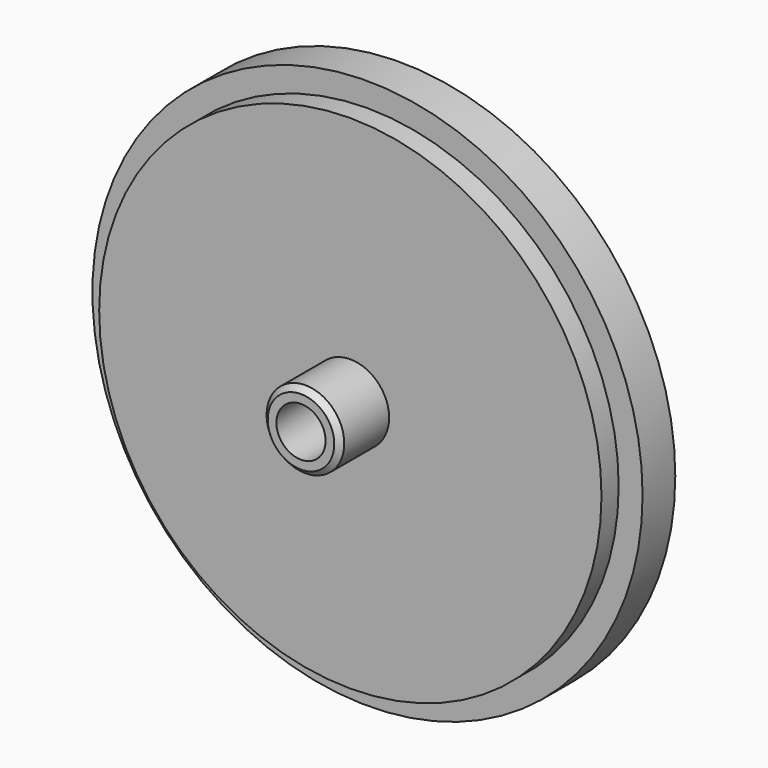
from build123d import *

# Parameters (mm, degrees)
F0_R      = 39.7
F1_DEPTH  = 5.9
F2_R      = 36.25
F3_DEPTH  = 3.1
F4_R      = 5.6
F5_DEPTH  = 8.9
F6_R      = 36.85
F7_DEPTH  = 4.1
F8_R      = 24.25
F9_DEPTH  = 3.2
F10_R     = 3.55
F11_DEPTH = 7.5
F12_SIZE  = 0.8


with BuildPart() as f1:
    # F0 (on Front) → F1 (new body)
    with BuildSketch(Plane.XZ):
        Circle(F0_R)
    extrude(amount=F1_DEPTH)

    # F2 (on face) → F3 (join)
    with BuildSketch(Plane.XZ.offset(5.9)):
        Circle(F2_R)
    extrude(amount=F3_DEPTH)

    # F4 (on face) → F5 (join)
    with BuildSketch(Plane.XZ.offset(9)):
        Circle(F4_R)
    extrude(amount=F5_DEPTH)

    # F6 (on face) → F7 (cut)
    with BuildSketch(Plane(origin=(0, 0, 0), x_dir=(-1, 0, 0), z_dir=(0, 1, 0))):
        Circle(F6_R)
    extrude(amount=-F7_DEPTH, mode=Mode.SUBTRACT)

    # F8 (on face) → F9 (cut)
    with BuildSketch(Plane(origin=(0, -4.1, 0), x_dir=(-1, 0, 0), z_dir=(0, 1, 0))):
        Circle(F8_R)
    extrude(amount=-F9_DEPTH, mode=Mode.SUBTRACT)

    # F10 (on face) → F11 (cut)
    with BuildSketch(Plane.XZ.offset(17.9)):
        Circle(F10_R)
    extrude(amount=-F11_DEPTH, mode=Mode.SUBTRACT)

    # F12
    f12_edges = [f1.edges().sort_by_distance(p)[0] for p in [
        (-5.6, -17.9, 0),
    ]]
    chamfer(f12_edges, length=F12_SIZE)


solid = f1.part
